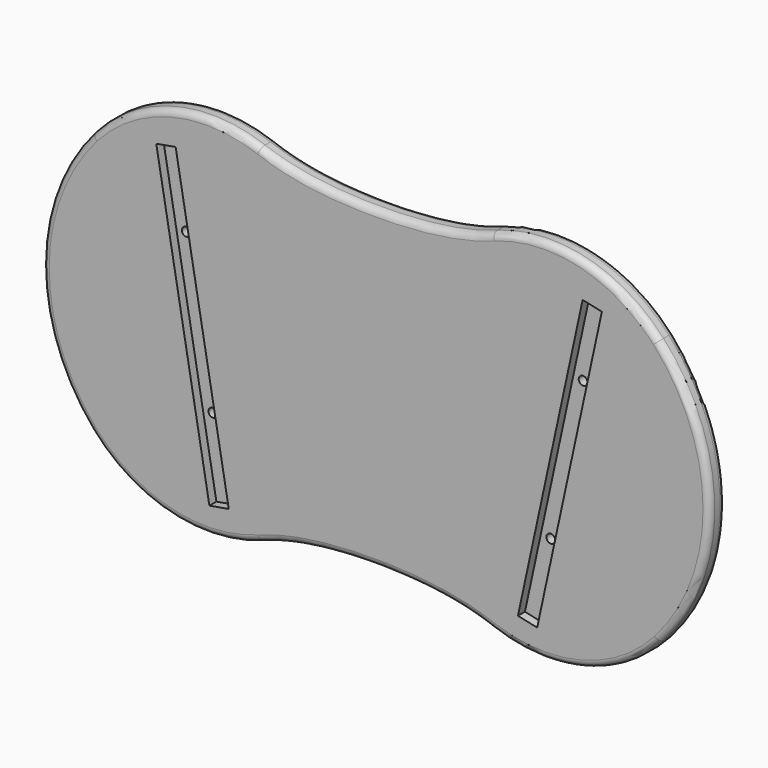
from build123d import *

# Parameters (mm, degrees)
F1_DEPTH = 9
F3_R     = 3
F4_DEPTH = 4
F6_D     = 4


with BuildPart() as f1:
    # F0 (on Front) → F1 (new body)
    with BuildSketch(Plane.XZ):
        with BuildLine():
            ThreePointArc((-53.1497258364, 79.5460974403), (-94.56723042, 81.6982905812), (-129.933253949, 60.0352806103))
            ThreePointArc((-129.933253949, 60.0352806103), (-152.5456475155, 0.3641086136), (-130.4114859728, -59.4861044443))
            ThreePointArc((-130.4114859728, -59.4861044443), (-94.8267257051, -81.5334878267), (-53.0234392177, -79.3317802685))
            add(Edge.make_bspline(
                [(-53.0234392177, -79.3317802685), (-48.6608082648, -77.7082088333), (-24.6397852476, -70.4889476448), (23.7505923387, -70.5665306527), (48.2937092789, -77.8753902125), (52.9987360366, -79.6127570647)],
                knots=[0.192962823, 0.192962823, 0.192962823, 0.192962823, 0.2940919494, 0.7017955969, 0.810107416, 0.810107416, 0.810107416, 0.810107416], degree=3))
            ThreePointArc((52.9987360366, -79.6127570647), (94.2508745118, -81.8498183409), (129.5801249251, -60.4351636118))
            ThreePointArc((129.5801249251, -60.4351636118), (152.5456748781, 0.3572045933), (129.1035766867, 60.9674062841))
            ThreePointArc((129.1035766867, 60.9674062841), (93.9984455084, 82.0081589209), (53.1289942993, 79.8237907218))
            add(Edge.make_bspline(
                [(-53.1497258364, 79.5460974403), (-48.7515954924, 77.9273408187), (-24.7040875075, 70.7832354564), (23.8166554522, 70.8602953804), (48.3873163026, 78.0925624494), (53.1289942993, 79.8237907218)],
                knots=[0.1918397391, 0.1918397391, 0.1918397391, 0.1918397391, 0.2939558653, 0.7019159659, 0.8112404118, 0.8112404118, 0.8112404118, 0.8112404118], degree=3))
        make_face()
    extrude(amount=F1_DEPTH)

    # F3
    f3_edges = [f1.edges().sort_by_distance(p)[0] for p in [
        (-94.56723, -9, 81.698291),
        (0.004128, -9, 71.956269),
        (93.998446, -9, 82.008159),
        (152.545675, -9, 0.357205),
        (94.250875, -9, -81.849818),
        (0.002547, -9, -71.678393),
        (-94.826726, -9, -81.533488),
        (-152.545648, -9, 0.364109),
        (-94.56723, 0, 81.698291),
    ]]
    fillet(f3_edges, radius=F3_R)

    # F2 (on face) → F4 (cut)
    with BuildSketch(Plane.XZ.offset(9)):
        Polygon((94.4679220363, 66.3983235541), (64.8748605741, -70.4382604186), (73.6714981152, -72.3406715126), (103.2645595774, 64.4959124601), align=None)
        Polygon((-76.2725546155, -72.0010940176), (-67.4092848384, -70.4382604186), (-91.7200297117, 67.4348250031), (-100.5832994888, 65.8719914041), align=None)
    extrude(amount=-F4_DEPTH, mode=Mode.SUBTRACT)

    # F6 (through all)
    with Locations(Plane.XZ.offset(9)):
        with Locations((-90.0739783819, 32.1851368482), (-77.9186059453, -36.7514058626), (76.6714447102, -37.1803199724), (91.4679754413, 31.2379720139)):
            Hole(F6_D / 2)


solid = f1.part
